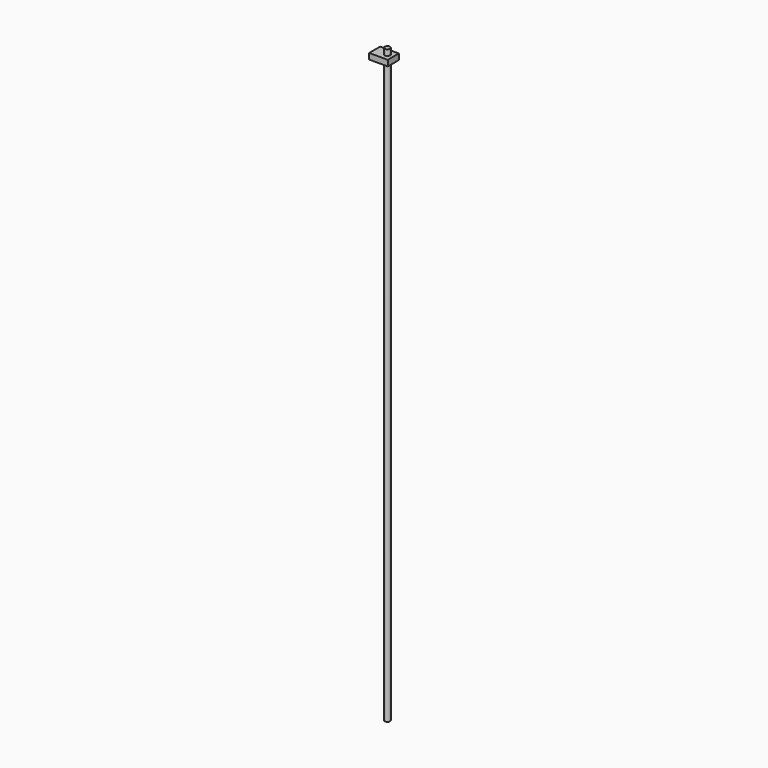
from build123d import *

# Parameters (mm, degrees)
F0_W          = 80.712397
F0_H          = 59.831567
F1_DEPTH      = 25.4
F2_R          = 11.951045
F3_DEPTH      = 25.4
F3_DEPTH_BACK = 2540


with BuildPart() as f1:
    # F0 (on Top) → F1 (new body)
    with BuildSketch(Plane.XY):
        with Locations((-35.909553, 8.104238)):
            Rectangle(F0_W, F0_H)
    extrude(amount=F1_DEPTH)

    # F2 (on face) → F3 (join, two sides)
    with BuildSketch(Plane.XY.offset(25.4)) as f3_sk:
        with Locations((-21.637337, 8.478672)):
            Circle(F2_R)
    extrude(amount=F3_DEPTH)
    extrude(f3_sk.sketch, amount=-F3_DEPTH_BACK)


solid = f1.part
